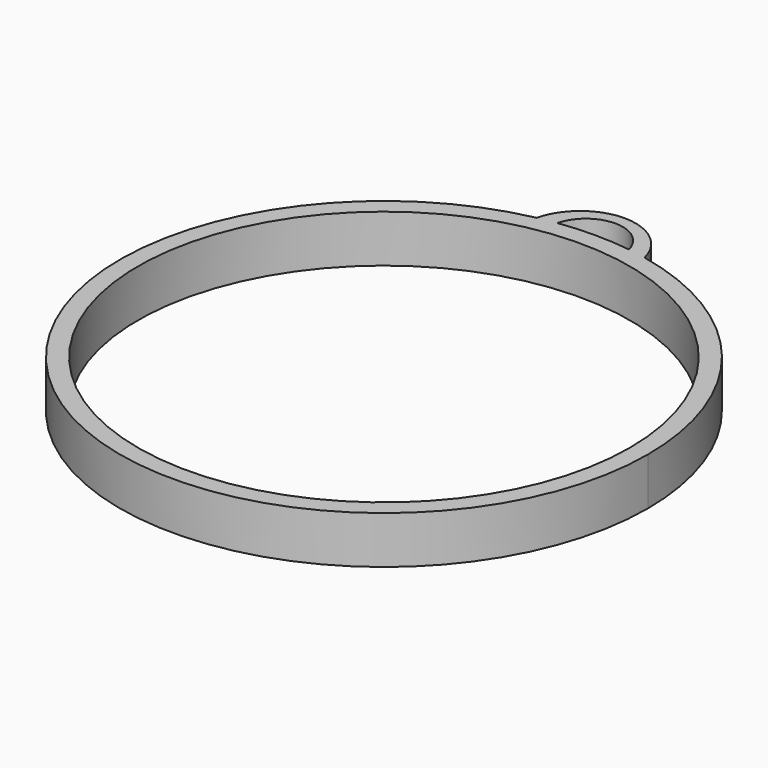
from build123d import *

# Parameters (mm, degrees)
F0_R     = 20.701
F1_DEPTH = 4


with BuildPart() as f1:
    # F0 (on Top) → F1 (new body)
    with BuildSketch(Plane.XY):
        with BuildLine():
            ThreePointArc((-4.53902, 21.756561), (-14.01911, -17.245729), (22.225, 0))
            ThreePointArc((22.225, 0), (17.245729, 14.01911), (4.53902, 21.756561))
            ThreePointArc((4.53902, 21.756561), (3.779308, 21.901312), (3.01502, 22.019543))
            ThreePointArc((3.01502, 22.019543), (0, 22.225), (-3.01502, 22.019543))
            ThreePointArc((-3.01502, 22.019543), (-3.779308, 21.901312), (-4.53902, 21.756561))
        make_face()
        Circle(F0_R, mode=Mode.SUBTRACT)
        with BuildLine():
            ThreePointArc((3.01502, 22.019543), (3.779308, 21.901312), (4.53902, 21.756561))
            ThreePointArc((4.53902, 21.756561), (0, 25.329819), (-4.53902, 21.756561))
            ThreePointArc((-4.53902, 21.756561), (-3.779308, 21.901312), (-3.01502, 22.019543))
            ThreePointArc((-3.01502, 22.019543), (0, 24.365), (3.01502, 22.019543))
        make_face()
    extrude(amount=F1_DEPTH)


solid = f1.part
